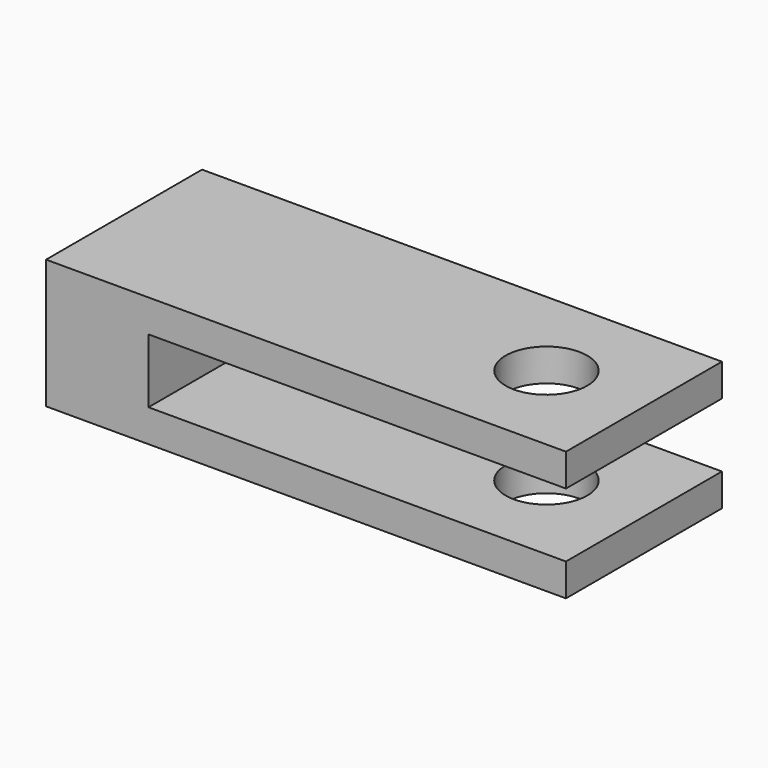
from build123d import *

# Parameters (mm, degrees)
CYLINDER_R     = 3.9878
CYLINDER_DEPTH = 25.4
BOX001_W       = 50.8
BOX001_H       = 19.05
BOX001_DEPTH   = 3.175
BOX002_W       = 10.0076
BOX002_H       = 19.05
BOX002_DEPTH   = 6.35
BOX_W          = 50.8
BOX_H          = 19.05
BOX_DEPTH      = 3.175


with BuildPart() as cylinder:
    # Cylinder → Cylinder (new body)
    with BuildSketch(Plane(origin=(41.275, 9.525, -7.62), x_dir=(1, 0, 0), z_dir=(0, 0, 1))):
        Circle(CYLINDER_R)
    extrude(amount=CYLINDER_DEPTH)


with BuildPart() as cube001:
    # Box001 → Box001 (new body)
    with BuildSketch(Plane.XY.offset(-1.422)):
        with Locations((25.4, 9.525)):
            Rectangle(BOX001_W, BOX001_H)
    extrude(amount=BOX001_DEPTH)


with BuildPart() as cube002:
    # Box002 → Box002 (new body)
    with BuildSketch(Plane.XY.offset(1.676)):
        with Locations((5.0038, 9.525)):
            Rectangle(BOX002_W, BOX002_H)
    extrude(amount=BOX002_DEPTH)


with BuildPart() as cut:
    # Box → Box (new body)
    with BuildSketch(Plane.XY.offset(8.026)):
        with Locations((25.4, 9.525)):
            Rectangle(BOX_W, BOX_H)
    extrude(amount=BOX_DEPTH)

    # Fusion: union Cube001, Cube002
    add(cube001.part)
    add(cube002.part)

    # Cut: cut Cylinder
    add(cylinder.part, mode=Mode.SUBTRACT)


solid = cut.part
